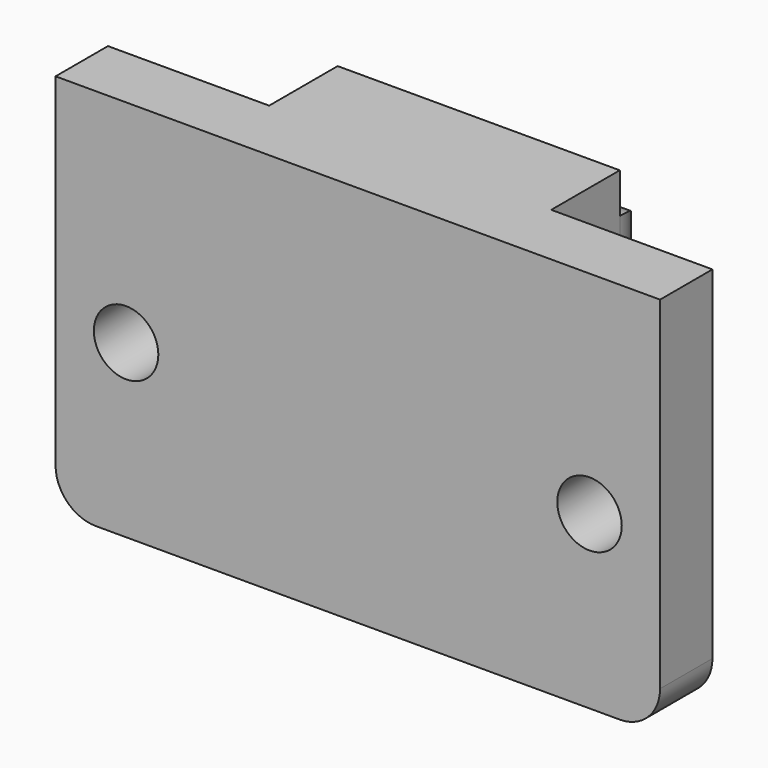
from build123d import *

# Parameters (mm, degrees)
F0_W     = 10.5
F0_H     = 2.5
F0_W_2   = 8
F0_H_2   = 3.25
F1_DEPTH = 17
F2_R     = 1.6
F3_DEPTH = 25
F4_R     = 2
F5_W     = 10.5
F5_H     = 2.5
F6_DEPTH = 2


with BuildPart() as f1:
    # F0 (on Top) → F1 (new body)
    with BuildSketch(Plane.XY):
        Polygon((7, 5), (-7, 5), (-7, -1.25), (-7, -4.5), (7, -4.5), (7, -1.25), align=None)
        with Locations((0, -1.25)):
            Rectangle(F0_W, F0_H, mode=Mode.SUBTRACT)
        with Locations((11, -2.875)):
            Rectangle(F0_W_2, F0_H_2)
        with Locations((-11, -2.875)):
            Rectangle(F0_W_2, F0_H_2)
    extrude(amount=F1_DEPTH)

    # F2 (on face) → F3 (cut)
    with BuildSketch(Plane.XZ.offset(4.5)):
        with Locations((11.5, 8.5)):
            Circle(F2_R)
        with Locations((-11.5, 8.5)):
            Circle(F2_R)
    extrude(amount=-F3_DEPTH, mode=Mode.SUBTRACT)

    # F4
    f4_edges = [f1.edges().sort_by_distance(p)[0] for p in [
        (0, 5, 0),
        (-7, 5, 8.5),
        (0, 5, 17),
        (7, 5, 8.5),
        (-15, -2.875, 0),
        (15, -2.875, 0),
    ]]
    fillet(f4_edges, radius=F4_R)

    # F5 (on face) → F6 (join)
    with BuildSketch(Plane.XY.offset(17)):
        Polygon((-7, -1.25), (-15, -1.25), (-15, -4.5), (15, -4.5), (15, -1.25), (7, -1.25), (7, 3), (-7, 3), align=None)
        with Locations((0, -1.25)):
            Rectangle(F5_W, F5_H, mode=Mode.SUBTRACT)
        with Locations((0, -1.25)):
            Rectangle(F5_W, F5_H)
    extrude(amount=F6_DEPTH)


solid = f1.part
